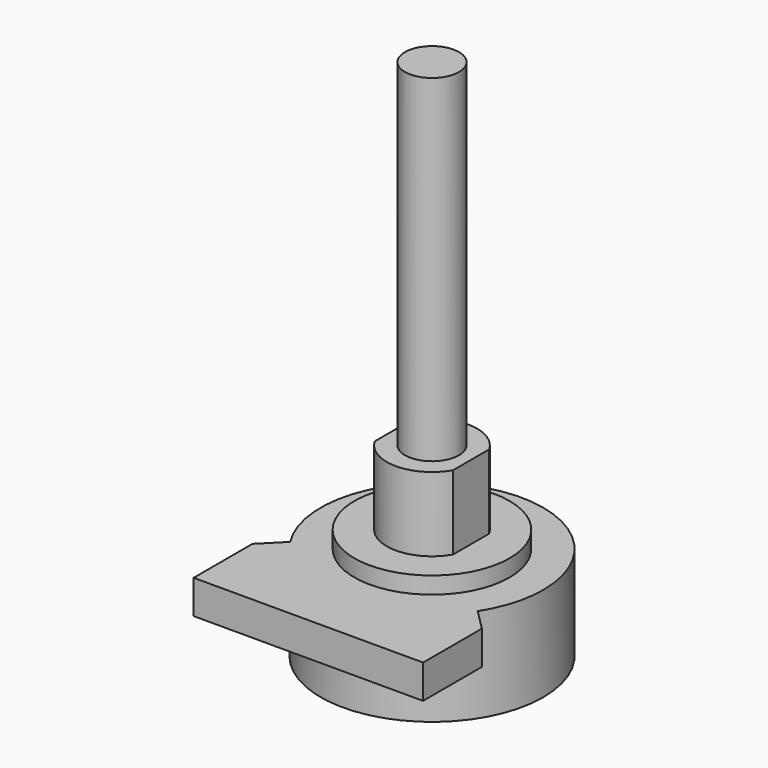
from build123d import *

# Parameters (mm, degrees)
F0_R      = 8.25
F1_DEPTH  = 7
F2_R      = 3
F3_DEPTH  = 1
F4_R      = 5.75
F5_DEPTH  = 1.25
F6_R      = 3.35
F7_DEPTH  = 5.5
F9_DEPTH  = 5.5
F10_R     = 2
F11_DEPTH = 25
F13_DEPTH = 2.5


with BuildPart() as f1:
    # F0 (on Top) → F1 (new body)
    with BuildSketch(Plane.XY):
        Circle(F0_R)
    extrude(amount=F1_DEPTH)

    # F2 (on face) → F3 (join)
    with BuildSketch(Plane(origin=(0, 0, 0), x_dir=(1, 0, 0), z_dir=(0, 0, -1))):
        Circle(F2_R)
    extrude(amount=F3_DEPTH)

    # F4 (on face) → F5 (join)
    with BuildSketch(Plane.XY.offset(7)):
        Circle(F4_R)
    extrude(amount=F5_DEPTH)

    # F6 (on face) → F7 (join)
    with BuildSketch(Plane.XY.offset(8.25)):
        Circle(F6_R)
    extrude(amount=F7_DEPTH)

    # F8 (on face) → F9 (cut, through all)
    with BuildSketch(Plane.XY.offset(13.75)):
        with BuildLine():
            ThreePointArc((-2.9, 1.677051), (-3.35, 0), (-2.9, -1.677051))
            Line((-2.9, -1.677051), (-2.9, 1.677051))
        make_face()
        with BuildLine():
            Line((2.9, 1.677051), (2.9, -1.677051))
            ThreePointArc((2.9, -1.677051), (3.235545, -0.868188), (3.35, 0))
            ThreePointArc((3.35, 0), (3.235545, 0.868188), (2.9, 1.677051))
        make_face()
    extrude(amount=-F9_DEPTH, mode=Mode.SUBTRACT)

    # F10 (on face) → F11 (join)
    with BuildSketch(Plane.XY.offset(13.75)):
        Circle(F10_R)
    extrude(amount=F11_DEPTH)

    # F12 (on face) → F13 (join)
    with BuildSketch(Plane.XY.offset(7)):
        Polygon((-8.5, -11.45), (8.5, -11.45), (8.5, -6.003058), (6.946942, -4.45), (-6.946942, -4.45), (-8.5, -6.003058), align=None)
    extrude(amount=-F13_DEPTH)


solid = f1.part
